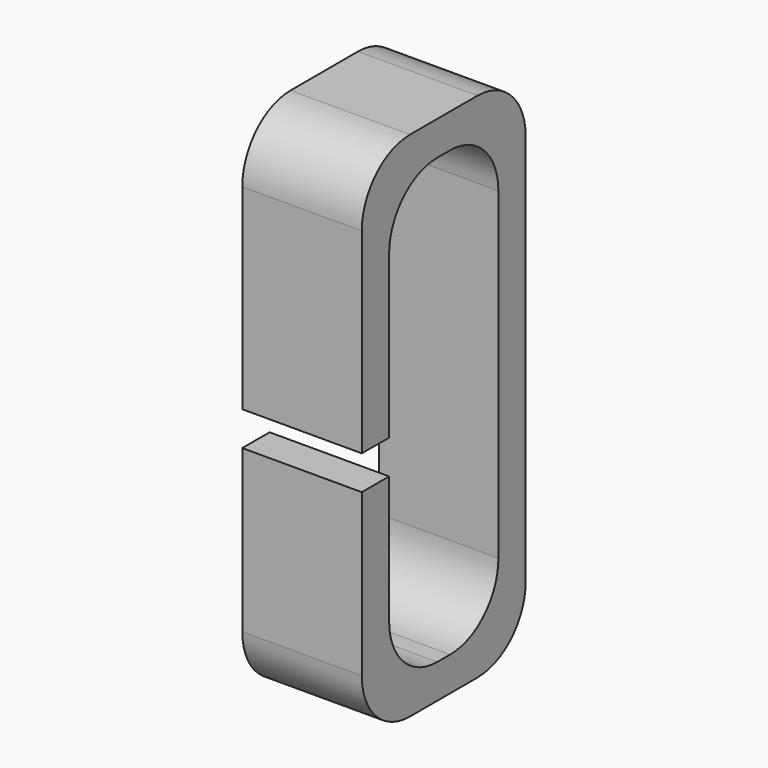
from build123d import *

# Parameters (mm, degrees)
F0_W     = 7
F0_H     = 26
F1_DEPTH = 2
F2_START = 10
F2_DEPTH = 2
F3_W     = 7
F3_H     = 12
F4_DEPTH = 2
F5_START = -26
F5_DEPTH = 2
F7_W     = 7
F7_H     = 2
F8_DEPTH = 4
F9_R     = 3.5306


with BuildPart() as f1:
    # F0 (on Front) → F1 (new body)
    with BuildSketch(Plane.XZ):
        with Locations((-3.5, 13)):
            Rectangle(F0_W, F0_H)
    extrude(amount=F1_DEPTH)


with BuildPart() as f2:
    # F0 (on Front) → F2 (new body)
    with BuildSketch(Plane.XZ.offset(F2_START)):
        with Locations((-3.5, 13)):
            Rectangle(F0_W, F0_H)
    extrude(amount=F2_DEPTH)


with BuildPart() as f4:
    # F3 (on face) → F4 (new body)
    with BuildSketch(Plane.XY.offset(26)):
        with Locations((-3.5, -6)):
            Rectangle(F3_W, F3_H)
    extrude(amount=F4_DEPTH)


with BuildPart() as f5:
    # F3 (on face) → F5 (new body)
    with BuildSketch(Plane.XY.offset(26).offset(F5_START)):
        with Locations((-3.5, -6)):
            Rectangle(F3_W, F3_H)
    extrude(amount=-F5_DEPTH)


with BuildPart() as f1_1:
    add(f1.part)

    # F6: union F2, F4, F5
    add(f2.part)
    add(f4.part)
    add(f5.part)

    # F7 (on face) → F8 (cut)
    with BuildSketch(Plane.XZ.offset(12)):
        with Locations((-3.5, 12)):
            Rectangle(F7_W, F7_H)
    extrude(amount=-F8_DEPTH, mode=Mode.SUBTRACT)

    # F9
    f9_edges = [f1_1.edges().sort_by_distance(p)[0] for p in [
        (-3.5, -12, 28),
        (-3.5, 0, 28),
        (-3.5, -12, -2),
        (-3.5, 0, -2),
        (-3.5, -2, 26),
        (-3.5, -2, 0),
        (-3.5, -10, 0),
        (-3.5, -10, 26),
    ]]
    fillet(f9_edges, radius=F9_R)


solid = f1_1.part
